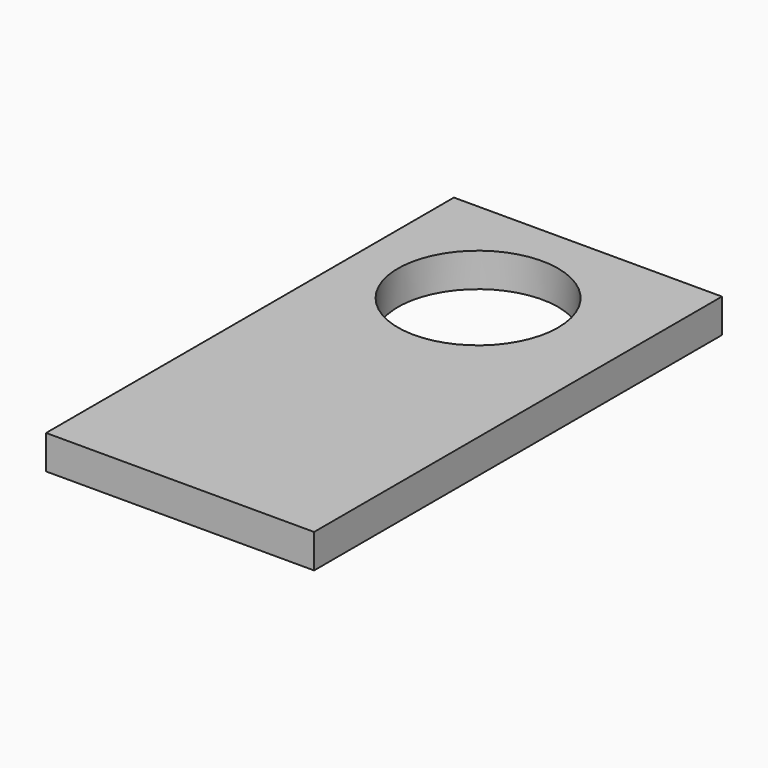
from build123d import *

# Parameters (mm, degrees)
F2_W     = 101.6
F2_H     = 193.2432
F2_R     = 30.353
F3_DEPTH = 12.8524


with BuildPart() as f3:
    # F2 (on face) → F3 (new body)
    with BuildSketch(Plane.XY):
        with Locations((-50.8, -10.479926)):
            Rectangle(F2_W, F2_H)
        with Locations((-55.7784, 40.320074)):
            Circle(F2_R, mode=Mode.SUBTRACT)
    extrude(amount=F3_DEPTH)


solid = f3.part
